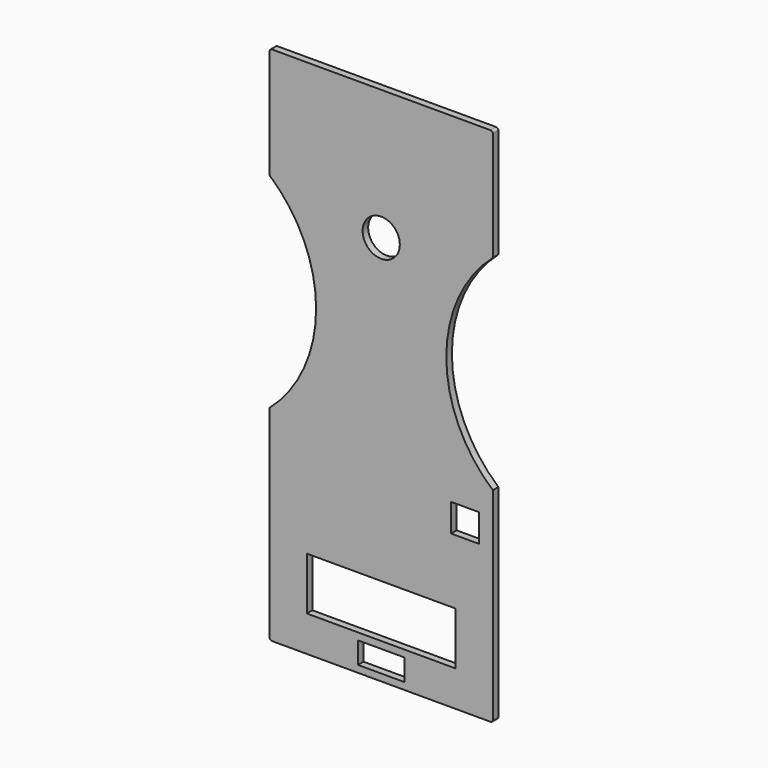
from build123d import *

# Parameters (mm, degrees)
F1_DEPTH = 19.05
F2_R     = 50.8
F2_W     = 76.2
F2_H     = 76.2
F2_W_2   = 406.4
F2_H_2   = 144.050563
F3_DEPTH = 19.051
F4_W     = 58.42
F4_H     = 58.42
F4_W_2   = 76.2
F4_H_2   = 254
F5_DEPTH = 6.35
F2_W_3   = 127
F2_H_3   = 59.149437
F6_DEPTH = 19.051


with BuildPart() as f1:
    # F0 (on Front) → F1 (new body)
    with BuildSketch(Plane.XZ):
        with BuildLine():
            Line((298.45, 711.2), (-298.45, 711.2))
            ThreePointArc((-298.45, 711.2), (-302.940128, 709.340128), (-304.8, 704.85))
            Line((-304.8, 704.85), (-304.8, 406.4))
            ThreePointArc((-304.8, 406.4), (-177.8, 127), (-304.8, -152.4))
            Line((-304.8, -152.4), (-304.8, -704.85))
            ThreePointArc((-304.8, -704.85), (-302.940128, -709.340128), (-298.45, -711.2))
            Line((-298.45, -711.2), (298.45, -711.2))
            ThreePointArc((298.45, -711.2), (302.940128, -709.340128), (304.8, -704.85))
            Line((304.8, -704.85), (304.8, -152.4))
            ThreePointArc((304.8, -152.4), (177.8, 127), (304.8, 406.4))
            Line((304.8, 406.4), (304.8, 704.85))
            ThreePointArc((304.8, 704.85), (302.940128, 709.340128), (298.45, 711.2))
        make_face()
    extrude(amount=F1_DEPTH)

    # F2 (on face) → F3 (cut, through all)
    with BuildSketch(Plane.XZ.offset(19.05)):
        with Locations((0, 355.6)):
            Circle(F2_R)
        with Locations((228.878711, -255.543973)):
            Rectangle(F2_W, F2_H)
        with Locations((0, -541.925281)):
            Rectangle(F2_W_2, F2_H_2)
    extrude(amount=-F3_DEPTH, mode=Mode.SUBTRACT)

    # F4 (on face) → F5 (cut)
    with BuildSketch(Plane.XZ):
        with Locations((123.19, -662.210563)):
            Rectangle(F4_W, F4_H)
        with Locations((-123.19, -662.210563)):
            Rectangle(F4_W, F4_H)
        with Locations((133.35, 355.6)):
            Rectangle(F4_W_2, F4_H_2)
        with Locations((-133.35, 355.6)):
            Rectangle(F4_W_2, F4_H_2)
    extrude(amount=F5_DEPTH, mode=Mode.SUBTRACT)

    # F2 (on face) → F6 (cut, through all)
    with BuildSketch(Plane.XZ.offset(19.05)):
        with Locations((0, -662.575281)):
            Rectangle(F2_W_3, F2_H_3)
    extrude(amount=-F6_DEPTH, mode=Mode.SUBTRACT)


solid = f1.part
